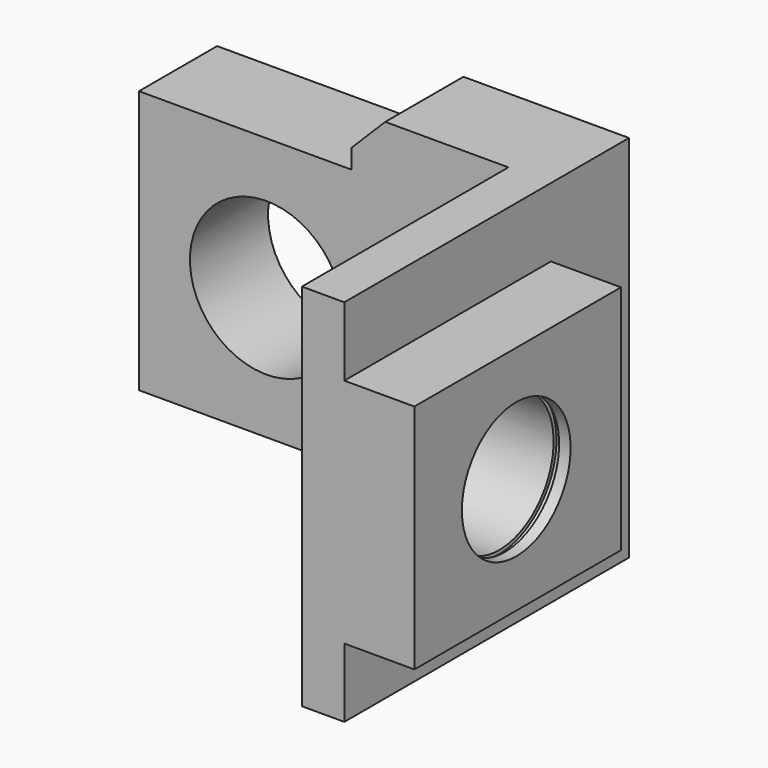
from build123d import *

# Parameters (mm, degrees)
F0_R     = 18
F1_DEPTH = 23
F2_DEPTH = 83.8
F3_START = 23
F0_W     = 16.5
F0_H     = 54.5
F3_DEPTH = 60.8
F6_SIZE2 = 8
F6_SIZE  = 8
F8_D     = 4.4
F8_DEPTH = 8
F8_TIP   = 1.3218933619


with BuildPart() as f1:
    # F0 (on Front) → F1 (new body)
    with BuildSketch(Plane.XZ):
        Polygon((-30, 31), (-30, -31), (20, -31), (20, -43.5), (57, -43.5), (57, 43.5), (20, 43.5), (20, 31), align=None)
        Circle(F0_R, mode=Mode.SUBTRACT)
    extrude(amount=F1_DEPTH)

    # F0 (on Front) → F2 (join)
    with BuildSketch(Plane.XZ):
        Polygon((57, 43.5), (57, -43.5), (67, -43.5), (67, -27.25), (67, 27.25), (67, 43.5), align=None)
    extrude(amount=F2_DEPTH)

    # F0 (on Front) → F3 (join)
    with BuildSketch(Plane.XZ.offset(F3_START)):
        with Locations((75.25, 0)):
            Rectangle(F0_W, F0_H)
    extrude(amount=F3_DEPTH)

    # F4 (on Top) → F5 (revolve, cut)
    with BuildSketch(Plane.XY):
        Polygon((57, -53.82), (57, -64.82), (59.5, -64.82), (59.5, -66.82), (61.5, -66.82), (61.5, -69.82), (79.5, -69.82), (79.5, -70.67), (80.8, -70.67), (80.8, -69.82), (83.5, -69.82), (83.5, -53.82), align=None)
    revolve(axis=Axis((70.25, -53.82, 0), (-1, 0, 0)), mode=Mode.SUBTRACT)

    # F6
    f6_edges = [f1.edges().sort_by_distance(p)[0] for p in [
        (20, -11.5, 43.5),
        (20, -11.5, -43.5),
    ]]
    chamfer(f6_edges, length=F6_SIZE, length2=F6_SIZE2)

    # F8
    with Locations(Plane(origin=(0, 0, -27.25), x_dir=(1, 0, 0), z_dir=(0, 0, -1))):
        with Locations((73.5, 73.82), (73.5, 33.82)):
            Hole(F8_D / 2, depth=F8_DEPTH)
            with Locations((0, 0, -(F8_DEPTH + F8_TIP / 2))):  # 118° drill point
                Cone(0, F8_D / 2, F8_TIP, mode=Mode.SUBTRACT)


solid = f1.part
